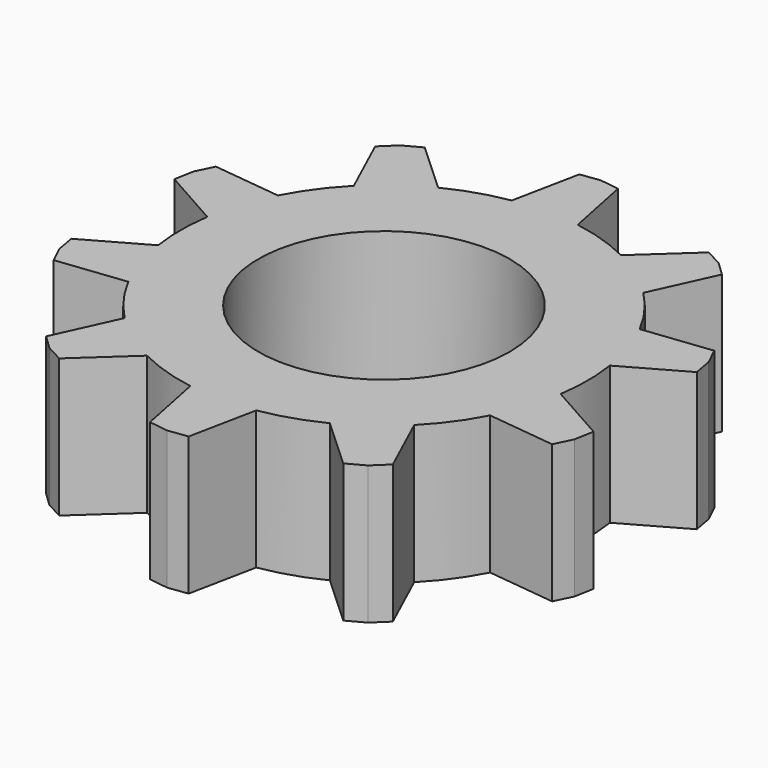
from build123d import *

# Parameters (mm, degrees)
F1_R     = 22.710134
F2_DEPTH = 25


with BuildPart() as f2:
    # F1 (on Top) → F2 (new body)
    with BuildSketch(Plane.XY):
        with BuildLine():
            Line((3.498161, 48.480518), (0, 48.958581))
            Line((0, 48.958581), (-3.498161, 48.480518))
            Line((-3.498161, 48.480518), (-5.9562, 36.306892))
            ThreePointArc((-5.9562, 36.306892), (-11.369418, 34.991471), (-16.521988, 32.873859))
            Line((-16.521988, 32.873859), (-25.666062, 41.277731))
            Line((-25.666062, 41.277731), (-28.777132, 39.608324))
            Line((-28.777132, 39.608324), (-31.326205, 37.165396))
            Line((-31.326205, 37.165396), (-26.159323, 25.871926))
            ThreePointArc((-26.159323, 25.871926), (-29.765523, 21.625918), (-32.689339, 16.88413))
            Line((-32.689339, 16.88413), (-45.026722, 18.308253))
            Line((-45.026722, 18.308253), (-46.562377, 15.129034))
            Line((-46.562377, 15.129034), (-47.188704, 11.654355))
            Line((-47.188704, 11.654355), (-36.370473, 5.554763))
            ThreePointArc((-36.370473, 5.554763), (-36.79221, 0), (-36.370473, -5.554763))
            Line((-36.370473, -5.554763), (-47.188704, -11.654355))
            Line((-47.188704, -11.654355), (-46.562377, -15.129034))
            Line((-46.562377, -15.129034), (-45.026722, -18.308253))
            Line((-45.026722, -18.308253), (-32.689339, -16.88413))
            ThreePointArc((-32.689339, -16.88413), (-29.765523, -21.625918), (-26.159323, -25.871926))
            Line((-26.159323, -25.871926), (-31.326205, -37.165396))
            Line((-31.326205, -37.165396), (-28.777132, -39.608324))
            Line((-28.777132, -39.608324), (-25.666062, -41.277731))
            Line((-25.666062, -41.277731), (-16.521988, -32.873859))
            ThreePointArc((-16.521988, -32.873859), (-11.369418, -34.991471), (-5.9562, -36.306892))
            Line((-5.9562, -36.306892), (-3.498161, -48.480518))
            Line((-3.498161, -48.480518), (0, -48.958581))
            Line((0, -48.958581), (3.498161, -48.480518))
            Line((3.498161, -48.480518), (5.9562, -36.306892))
            ThreePointArc((5.9562, -36.306892), (11.369418, -34.991471), (16.521988, -32.873859))
            Line((16.521988, -32.873859), (25.666062, -41.277731))
            Line((25.666062, -41.277731), (28.777132, -39.608324))
            Line((28.777132, -39.608324), (31.326205, -37.165396))
            Line((31.326205, -37.165396), (26.159323, -25.871926))
            ThreePointArc((26.159323, -25.871926), (29.765523, -21.625918), (32.689339, -16.88413))
            Line((32.689339, -16.88413), (45.026722, -18.308253))
            Line((45.026722, -18.308253), (46.562377, -15.129034))
            Line((46.562377, -15.129034), (47.188704, -11.654355))
            Line((47.188704, -11.654355), (36.370473, -5.554763))
            ThreePointArc((36.370473, -5.554763), (36.79221, 0), (36.370473, 5.554763))
            Line((36.370473, 5.554763), (47.188704, 11.654355))
            Line((47.188704, 11.654355), (46.562377, 15.129034))
            Line((46.562377, 15.129034), (45.026722, 18.308253))
            Line((45.026722, 18.308253), (32.689339, 16.88413))
            ThreePointArc((32.689339, 16.88413), (29.765523, 21.625918), (26.159323, 25.871926))
            Line((26.159323, 25.871926), (31.326205, 37.165396))
            Line((31.326205, 37.165396), (28.777132, 39.608324))
            Line((28.777132, 39.608324), (25.666062, 41.277731))
            Line((25.666062, 41.277731), (16.521988, 32.873859))
            ThreePointArc((16.521988, 32.873859), (11.369418, 34.991471), (5.9562, 36.306892))
            Line((5.9562, 36.306892), (3.498161, 48.480518))
        make_face()
        Circle(F1_R, mode=Mode.SUBTRACT)
    extrude(amount=F2_DEPTH)


solid = f2.part
